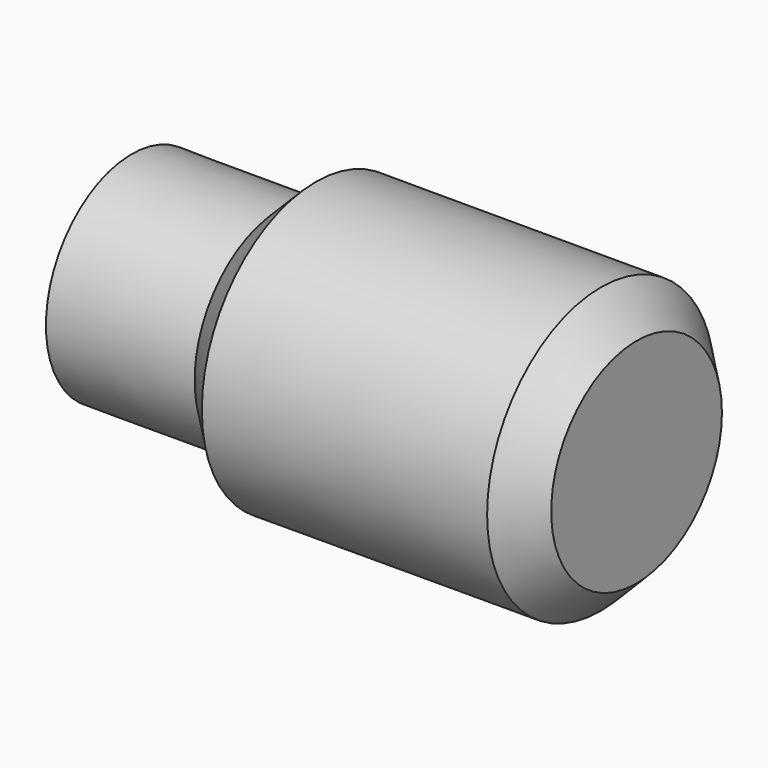
from build123d import *


with BuildPart() as f1:
    # F0 (on Top) → F1 (revolve)
    with BuildSketch(Plane.XY):
        Polygon((22.3644477874, 20.0660368055), (-17.6355522126, 20.0660368055), (-22.6355522126, 15.0660368055), (-43.4845276177, 15.0660368055), (-43.4845276177, 0), (27.3644477874, 0.0660368055), (27.3644477874, 15.0660368055), align=None)
        Polygon((22.3644477874, 20.0660368055), (-17.6355522126, 20.0660368055), (-22.6355522126, 15.0660368055), (-43.4845276177, 15.0660368055), (-43.4845276177, 0), (27.3644477874, 0.0660368055), (27.3644477874, 15.0660368055), align=None)
        Polygon((22.3644477874, 20.0660368055), (-17.6355522126, 20.0660368055), (-22.6355522126, 15.0660368055), (-43.4845276177, 15.0660368055), (-43.4845276177, 0), (27.3644477874, 0.0660368055), (27.3644477874, 15.0660368055), align=None)
        Polygon((22.3644477874, 20.0660368055), (-17.6355522126, 20.0660368055), (-22.6355522126, 15.0660368055), (-43.4845276177, 15.0660368055), (-43.4845276177, 0), (27.3644477874, 0.0660368055), (27.3644477874, 15.0660368055), align=None)
    revolve(axis=Axis((-8.0600399151, 0.0330184028, 0), (-0.9999995656, -0.0009320781, 0)))


solid = f1.part
